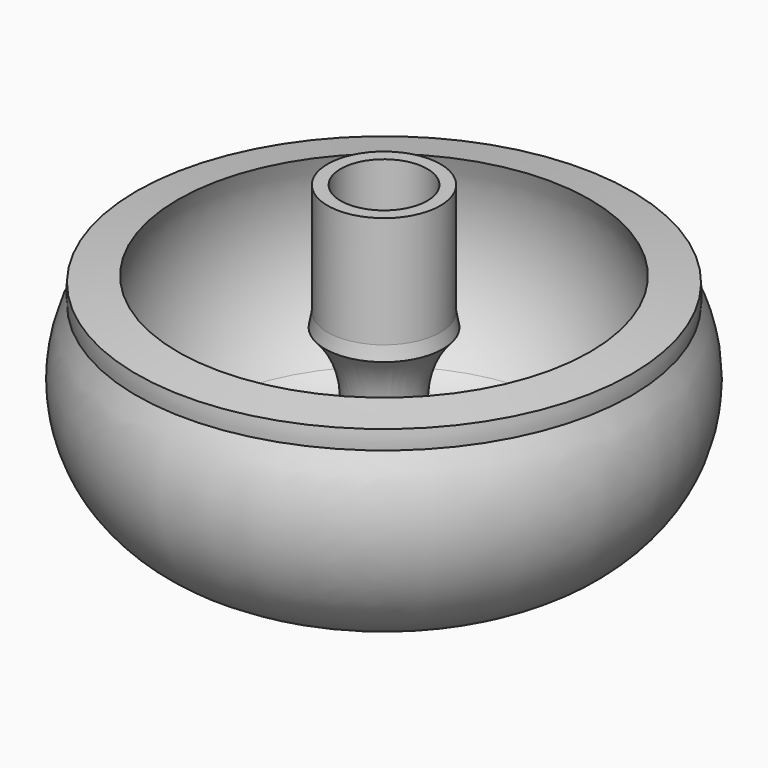
from build123d import *


with BuildPart() as f1:
    # F0 (on Front) → F1 (revolve)
    with BuildSketch(Plane.XZ):
        with BuildLine():
            Line((0, 25.334082), (0, 22.794082))
            Line((0, 22.794082), (1.59343, 22.794082))
            Line((1.59343, 22.794082), (1.59343, 0.569082))
            Line((1.59343, 0.569082), (6.489803, 2.317787))
            ThreePointArc((6.489803, 2.317787), (24.552376, 5.216237), (27.22951, 23.312936))
            ThreePointArc((27.22951, 23.312936), (27.288101, 24.350874), (27.22951, 25.388812))
            Line((27.22951, 25.388812), (22.668108, 26.055526))
            ThreePointArc((22.668108, 26.055526), (24.038478, 16.092022), (19.955875, 6.900629))
            ThreePointArc((19.955875, 6.900629), (6.489201, 7.584196), (6.479946, 21.068206))
            ThreePointArc((6.479946, 21.068206), (6.328889, 21.825169), (6.200732, 22.586344))
            Line((6.200732, 22.586344), (6.200732, 34.859082))
            Line((6.200732, 34.859082), (4.7625, 34.859082))
            Line((4.7625, 34.859082), (4.7625, 25.334082))
            Line((4.7625, 25.334082), (0, 25.334082))
        make_face()
    revolve(axis=Axis((0, 0, 24.064082), (0, 0, 1)))


solid = f1.part
